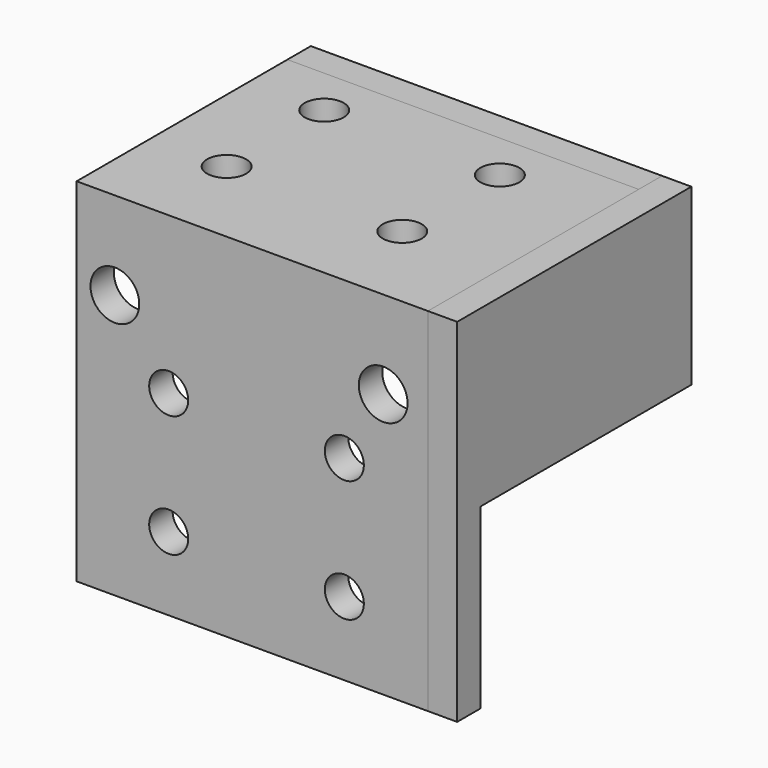
from build123d import *

# Parameters (mm, degrees)
F0_W     = 36
F0_H     = 18
F0_R     = 2
F1_DEPTH = 3
F2_W     = 36
F2_H     = 3
F3_DEPTH = 24
F4_R     = 2
F5_DEPTH = 25
F6_W     = 36
F6_H     = 33.095895
F6_R     = 2
F6_R_2   = 2.5
F6_H_2   = 3
F7_DEPTH = 3
F9_DEPTH = 3


with BuildPart() as f1:
    # F0 (on Front) → F1 (new body)
    with BuildSketch(Plane.XZ):
        Rectangle(F0_W, F0_H)
        with Locations((-14.082598, 0)):
            Circle(F0_R, mode=Mode.SUBTRACT)
        with Locations((13.417402, 0)):
            Circle(F0_R, mode=Mode.SUBTRACT)
    extrude(amount=F1_DEPTH)


with BuildPart() as f3:
    # F2 (on face) → F3 (new body)
    with BuildSketch(Plane.XZ.offset(3)):
        with Locations((0, 7.5)):
            Rectangle(F2_W, F2_H)
    extrude(amount=F3_DEPTH)

    # F4 (on face) → F5 (cut)
    with BuildSketch(Plane.XY.offset(9)):
        with Locations((-10.227273, -8)):
            Circle(F4_R)
        with Locations((-10.227273, -20.5)):
            Circle(F4_R)
        with Locations((7.772727, -20.5)):
            Circle(F4_R)
        with Locations((7.772727, -8)):
            Circle(F4_R)
    extrude(amount=-F5_DEPTH, mode=Mode.SUBTRACT)

    # F6 (on face) → F7 (join)
    with BuildSketch(Plane.XZ.offset(27)):
        with Locations((0, -10.547947)):
            Rectangle(F6_W, F6_H)
        with Locations((-8.565474, -19.549852)):
            Circle(F6_R, mode=Mode.SUBTRACT)
        with Locations((9.434526, -19.549852)):
            Circle(F6_R, mode=Mode.SUBTRACT)
        with Locations((-8.565474, -7.049852)):
            Circle(F6_R, mode=Mode.SUBTRACT)
        with Locations((-14.082598, 0)):
            Circle(F6_R_2, mode=Mode.SUBTRACT)
        with Locations((9.434526, -7.049852)):
            Circle(F6_R, mode=Mode.SUBTRACT)
        with Locations((13.417402, 0)):
            Circle(F6_R_2, mode=Mode.SUBTRACT)
        with Locations((0, 7.5)):
            Rectangle(F6_W, F6_H_2)
    extrude(amount=F7_DEPTH)


with BuildPart() as f9:
    # F8 (on face) → F9 (new body)
    with BuildSketch(Plane.YZ.offset(18)):
        Polygon((0, 9), (-3, 9), (-3, 6), (-27, 6), (-27, -8.874884), (-3, -8.874884), (0, -8.874884), align=None)
        Polygon((-30, 9), (-30, -27.095895), (-27, -27.095895), (-27, -8.874884), (-27, 6), (-3, 6), (-3, 9), align=None)
    extrude(amount=F9_DEPTH)


solid = Compound([f1.part, f3.part, f9.part])
